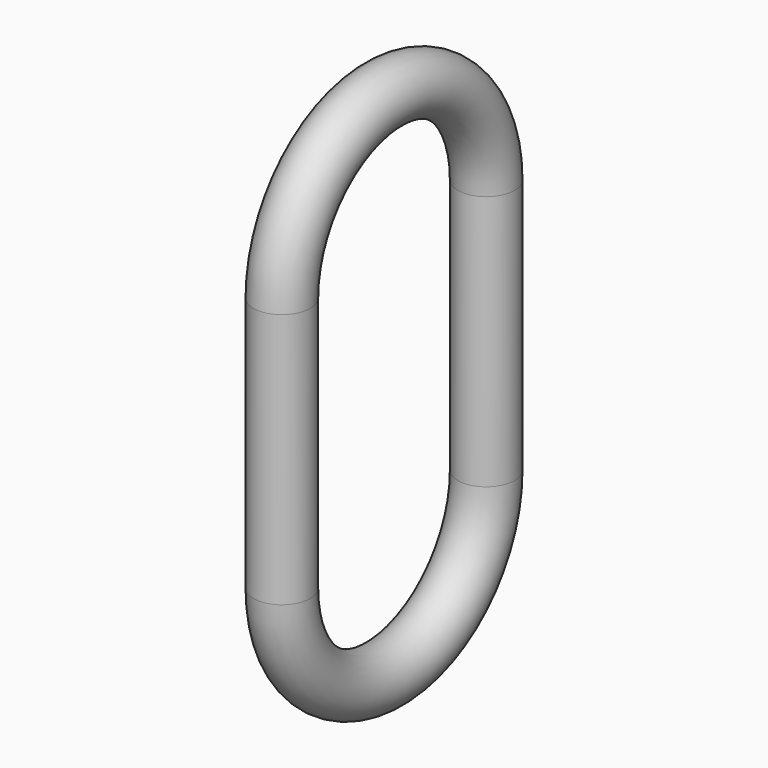
from build123d import *

# Parameters (mm, degrees)
F1_R = 1


with BuildPart() as f2:
    # F2: sweep along a path in F0
    with BuildLine(Plane.YZ) as f2_path:
        ThreePointArc((-4.5, 0), (0, -4.5), (4.5, 0))
        Line((4.5, 0), (4.5, 9))
        ThreePointArc((4.5, 9), (0, 13.5), (-4.5, 9))
        Line((-4.5, 9), (-4.5, 0))
    # F1 (on Top) → F2 (sweep)
    with BuildSketch(Plane.XY):
        with Locations((0, 4.5)):
            Circle(F1_R)
    sweep(path=f2_path.line)


solid = f2.part
